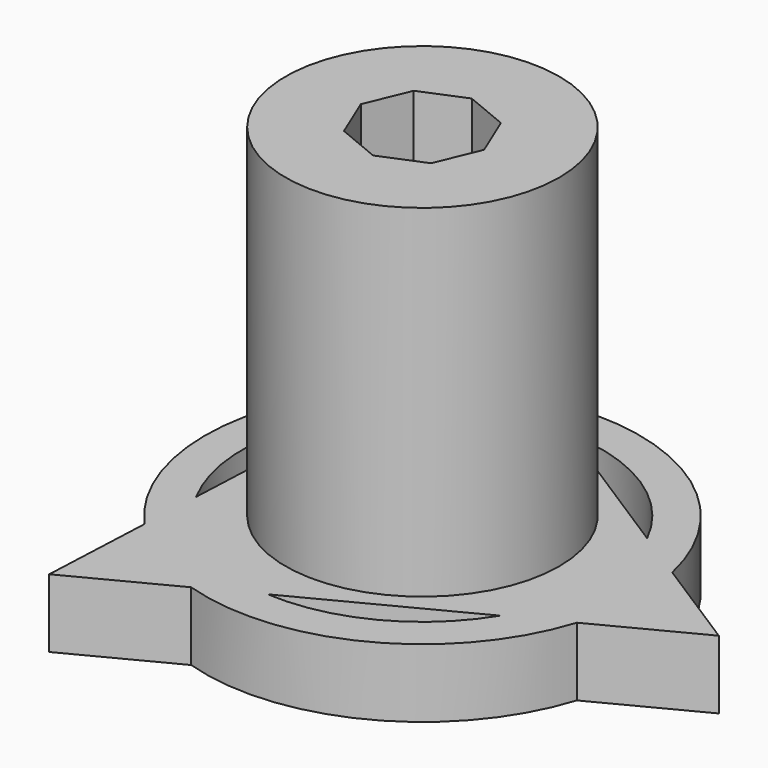
from build123d import *

# Parameters (mm, degrees)
F0_R     = 6
F1_DEPTH = 15
F3_DEPTH = 5
F5_DEPTH = 3
F6_R     = 9.527798
F6_R_2   = 7.870818
F7_DEPTH = 3


with BuildPart() as f1:
    # F0 (on Top) → F1 (new body)
    with BuildSketch(Plane.XY):
        Circle(F0_R)
    extrude(amount=F1_DEPTH)

    # F2 (on face) → F3 (cut)
    with BuildSketch(Plane.XY.offset(15)):
        Polygon((1.911385, 1.911385), (0, 2.703106), (-1.911385, 1.911385), (-2.703106, 0), (-1.911385, -1.911385), (0, -2.703106), (1.911385, -1.911385), (2.703106, 0), align=None)
    extrude(amount=-F3_DEPTH, mode=Mode.SUBTRACT)

    # F4 (on face) → F5 (join)
    with BuildSketch(Plane(origin=(0, 0, 0), x_dir=(1, 0, 0), z_dir=(0, 0, -1))):
        Polygon((-6.211701, -11.975178), (13.476659, 0.608098), (-7.264957, 11.36708), align=None)
    extrude(amount=F5_DEPTH)

    # F6 (on face) → F7 (join)
    with BuildSketch(Plane(origin=(0, 0, -3), x_dir=(1, 0, 0), z_dir=(0, 0, -1))):
        Circle(F6_R)
        Circle(F6_R_2, mode=Mode.SUBTRACT)
    extrude(amount=-F7_DEPTH)


solid = f1.part
